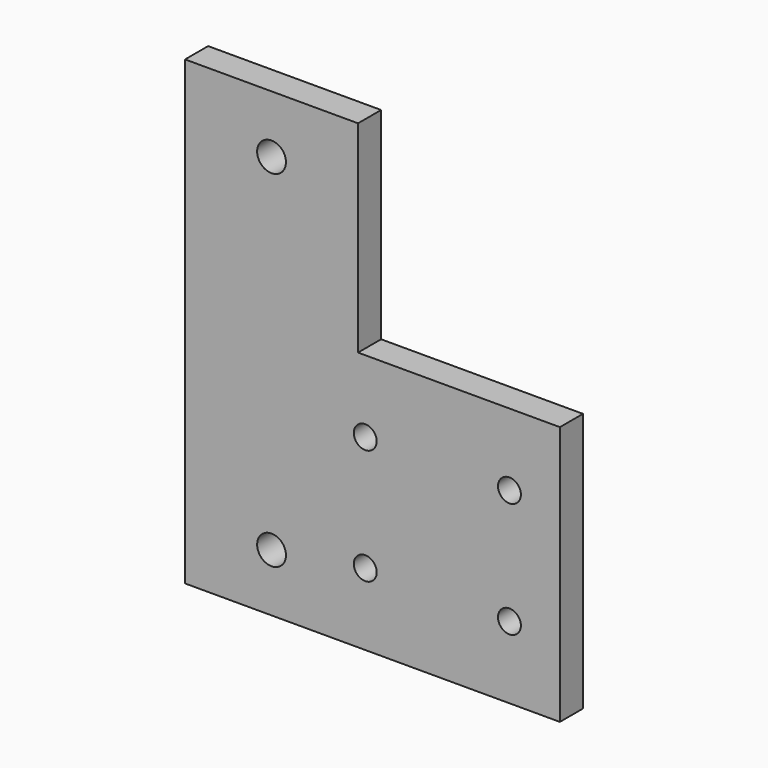
from build123d import *

# Parameters (mm, degrees)
F0_R     = 6.35
F0_R_2   = 5.0419
F1_DEPTH = 6.35


with BuildPart() as f1:
    # F0 (on Front) → F1 (new body, symmetric)
    with BuildSketch(Plane.XZ):
        Polygon((-6.35, 12.7), (-6.35, 101.6), (-82.55, 101.6), (-82.55, -101.6), (82.55, -101.6), (82.55, 12.7), align=None)
        with Locations((-44.45, -76.2)):
            Circle(F0_R, mode=Mode.SUBTRACT)
        with Locations((-3.175, -69.85)):
            Circle(F0_R_2, mode=Mode.SUBTRACT)
        with Locations((-3.175, -19.05)):
            Circle(F0_R_2, mode=Mode.SUBTRACT)
        with Locations((60.325, -69.85)):
            Circle(F0_R_2, mode=Mode.SUBTRACT)
        with Locations((60.325, -19.05)):
            Circle(F0_R_2, mode=Mode.SUBTRACT)
        with Locations((-44.45, 76.2)):
            Circle(F0_R, mode=Mode.SUBTRACT)
    extrude(amount=F1_DEPTH, both=True)


solid = f1.part
